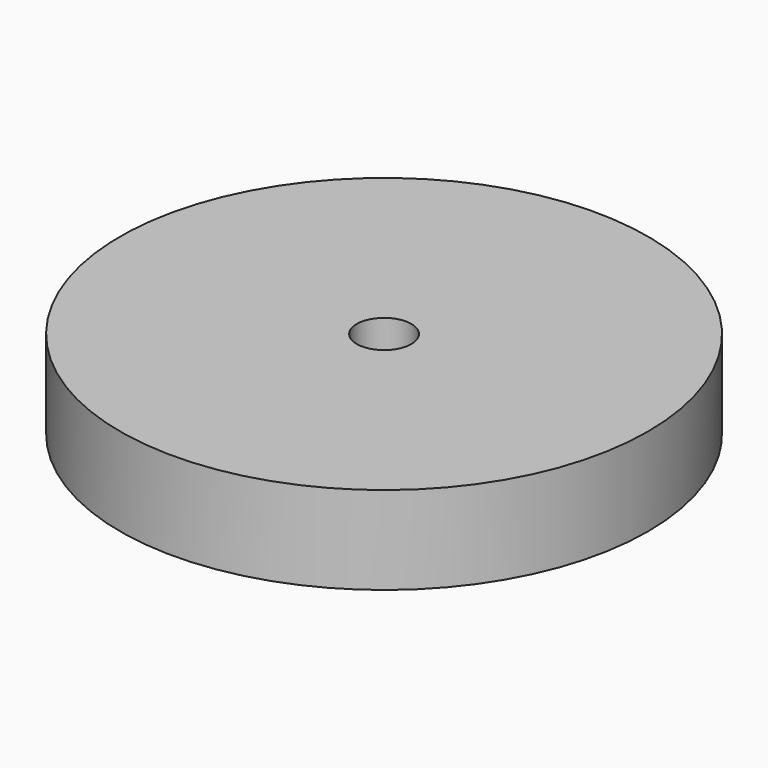
from build123d import *

# Parameters (mm, degrees)
F0_R     = 38.1
F1_DEPTH = 12.7
F3_D     = 7.874


with BuildPart() as f1:
    # F0 (on Top) → F1 (new body)
    with BuildSketch(Plane.XY):
        Circle(F0_R)
    extrude(amount=-F1_DEPTH)

    # F3 (through all)
    with Locations(Plane.XY):
        with Locations((0, 0)):
            Hole(F3_D / 2)


solid = f1.part
